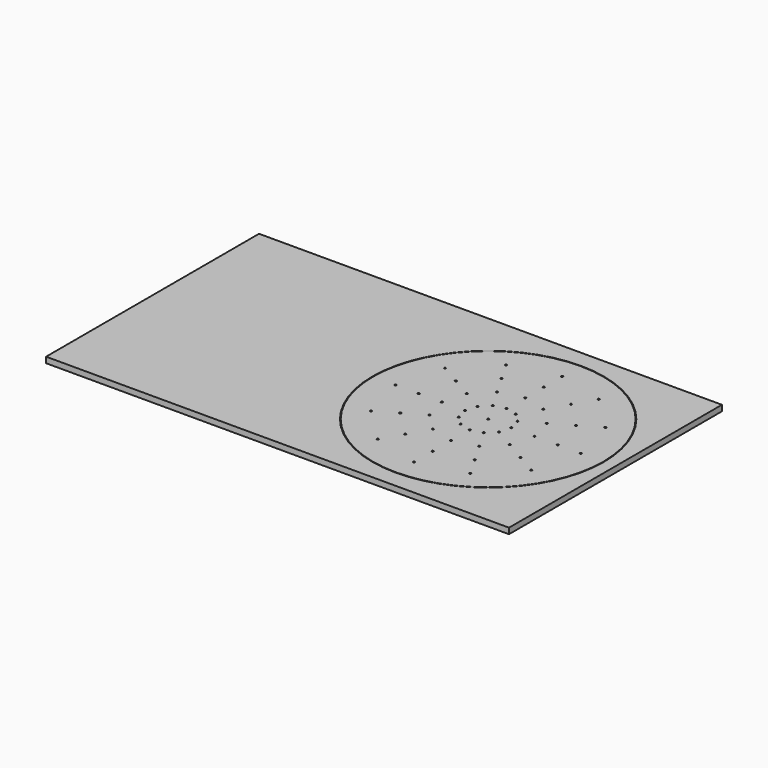
from build123d import *

# Parameters (mm, degrees)
F0_W     = 2000
F0_H     = 1150
F0_R     = 500
F1_DEPTH = 25
F2_R     = 497.5
F2_R_2   = 4
F3_DEPTH = 25


with BuildPart() as f1:
    # F0 (on Top) → F1 (new body)
    with BuildSketch(Plane.XY):
        with Locations((-958.499644, 550.949928)):
            Rectangle(F0_W, F0_H)
        with Locations((-508.499644, 550.949928)):
            Circle(F0_R, mode=Mode.SUBTRACT)
    extrude(amount=F1_DEPTH)


with BuildPart() as f3:
    # F2 (on face) → F3 (new body)
    with BuildSketch(Plane.XY):
        with Locations((-508.499644, 550.949928)):
            Circle(F2_R)
        with Locations((-708.499644, 204.539767)):
            Circle(F2_R_2, mode=Mode.SUBTRACT)
        with Locations((-658.499644, 291.142307)):
            Circle(F2_R_2, mode=Mode.SUBTRACT)
        with Locations((-854.909805, 350.949928)):
            Circle(F2_R_2, mode=Mode.SUBTRACT)
        with Locations((-768.307265, 400.949928)):
            Circle(F2_R_2, mode=Mode.SUBTRACT)
        with Locations((-608.499644, 377.744847)):
            Circle(F2_R_2, mode=Mode.SUBTRACT)
        with Locations((-681.704725, 450.949928)):
            Circle(F2_R_2, mode=Mode.SUBTRACT)
        with Locations((-558.499644, 464.347388)):
            Circle(F2_R_2, mode=Mode.SUBTRACT)
        with Locations((-595.102184, 500.949928)):
            Circle(F2_R_2, mode=Mode.SUBTRACT)
        with Locations((-508.499644, 150.949928)):
            Circle(F2_R_2, mode=Mode.SUBTRACT)
        with Locations((-508.499644, 250.949928)):
            Circle(F2_R_2, mode=Mode.SUBTRACT)
        with Locations((-308.499644, 204.539767)):
            Circle(F2_R_2, mode=Mode.SUBTRACT)
        with Locations((-358.499644, 291.142307)):
            Circle(F2_R_2, mode=Mode.SUBTRACT)
        with Locations((-508.499644, 350.949928)):
            Circle(F2_R_2, mode=Mode.SUBTRACT)
        with Locations((-408.499644, 377.744847)):
            Circle(F2_R_2, mode=Mode.SUBTRACT)
        with Locations((-508.499644, 450.949928)):
            Circle(F2_R_2, mode=Mode.SUBTRACT)
        with Locations((-458.499644, 464.347388)):
            Circle(F2_R_2, mode=Mode.SUBTRACT)
        with Locations((-421.897104, 500.949928)):
            Circle(F2_R_2, mode=Mode.SUBTRACT)
        with Locations((-408.499644, 550.949928)):
            Circle(F2_R_2, mode=Mode.SUBTRACT)
        with Locations((-335.294563, 450.949928)):
            Circle(F2_R_2, mode=Mode.SUBTRACT)
        with Locations((-308.499644, 550.949928)):
            Circle(F2_R_2, mode=Mode.SUBTRACT)
        with Locations((-162.089482, 350.949928)):
            Circle(F2_R_2, mode=Mode.SUBTRACT)
        with Locations((-248.692023, 400.949928)):
            Circle(F2_R_2, mode=Mode.SUBTRACT)
        with Locations((-208.499644, 550.949928)):
            Circle(F2_R_2, mode=Mode.SUBTRACT)
        with Locations((-108.499644, 550.949928)):
            Circle(F2_R_2, mode=Mode.SUBTRACT)
        with Locations((-908.499644, 550.949928)):
            Circle(F2_R_2, mode=Mode.SUBTRACT)
        with Locations((-808.499644, 550.949928)):
            Circle(F2_R_2, mode=Mode.SUBTRACT)
        with Locations((-768.307265, 700.949928)):
            Circle(F2_R_2, mode=Mode.SUBTRACT)
        with Locations((-854.909805, 750.949928)):
            Circle(F2_R_2, mode=Mode.SUBTRACT)
        with Locations((-708.499644, 550.949928)):
            Circle(F2_R_2, mode=Mode.SUBTRACT)
        with Locations((-681.704725, 650.949928)):
            Circle(F2_R_2, mode=Mode.SUBTRACT)
        with Locations((-608.499644, 550.949928)):
            Circle(F2_R_2, mode=Mode.SUBTRACT)
        with Locations((-595.102184, 600.949928)):
            Circle(F2_R_2, mode=Mode.SUBTRACT)
        with Locations((-558.499644, 637.552469)):
            Circle(F2_R_2, mode=Mode.SUBTRACT)
        with Locations((-608.499644, 724.155009)):
            Circle(F2_R_2, mode=Mode.SUBTRACT)
        with Locations((-658.499644, 810.757549)):
            Circle(F2_R_2, mode=Mode.SUBTRACT)
        with Locations((-708.499644, 897.36009)):
            Circle(F2_R_2, mode=Mode.SUBTRACT)
        with Locations((-508.499644, 550.949928)):
            Circle(F2_R_2, mode=Mode.SUBTRACT)
        with Locations((-421.897104, 600.949928)):
            Circle(F2_R_2, mode=Mode.SUBTRACT)
        with Locations((-458.499644, 637.552469)):
            Circle(F2_R_2, mode=Mode.SUBTRACT)
        with Locations((-508.499644, 650.949928)):
            Circle(F2_R_2, mode=Mode.SUBTRACT)
        with Locations((-335.294563, 650.949928)):
            Circle(F2_R_2, mode=Mode.SUBTRACT)
        with Locations((-408.499644, 724.155009)):
            Circle(F2_R_2, mode=Mode.SUBTRACT)
        with Locations((-508.499644, 750.949928)):
            Circle(F2_R_2, mode=Mode.SUBTRACT)
        with Locations((-248.692023, 700.949928)):
            Circle(F2_R_2, mode=Mode.SUBTRACT)
        with Locations((-162.089482, 750.949928)):
            Circle(F2_R_2, mode=Mode.SUBTRACT)
        with Locations((-508.499644, 850.949928)):
            Circle(F2_R_2, mode=Mode.SUBTRACT)
        with Locations((-358.499644, 810.757549)):
            Circle(F2_R_2, mode=Mode.SUBTRACT)
        with Locations((-308.499644, 897.36009)):
            Circle(F2_R_2, mode=Mode.SUBTRACT)
        with Locations((-508.499644, 950.949928)):
            Circle(F2_R_2, mode=Mode.SUBTRACT)
        with Locations((-508.499644, 550.949928)):
            Circle(F2_R)
        with Locations((-708.499644, 204.539767)):
            Circle(F2_R_2, mode=Mode.SUBTRACT)
        with Locations((-658.499644, 291.142307)):
            Circle(F2_R_2, mode=Mode.SUBTRACT)
        with Locations((-854.909805, 350.949928)):
            Circle(F2_R_2, mode=Mode.SUBTRACT)
        with Locations((-768.307265, 400.949928)):
            Circle(F2_R_2, mode=Mode.SUBTRACT)
        with Locations((-608.499644, 377.744847)):
            Circle(F2_R_2, mode=Mode.SUBTRACT)
        with Locations((-681.704725, 450.949928)):
            Circle(F2_R_2, mode=Mode.SUBTRACT)
        with Locations((-558.499644, 464.347388)):
            Circle(F2_R_2, mode=Mode.SUBTRACT)
        with Locations((-595.102184, 500.949928)):
            Circle(F2_R_2, mode=Mode.SUBTRACT)
        with Locations((-508.499644, 150.949928)):
            Circle(F2_R_2, mode=Mode.SUBTRACT)
        with Locations((-508.499644, 250.949928)):
            Circle(F2_R_2, mode=Mode.SUBTRACT)
        with Locations((-308.499644, 204.539767)):
            Circle(F2_R_2, mode=Mode.SUBTRACT)
        with Locations((-358.499644, 291.142307)):
            Circle(F2_R_2, mode=Mode.SUBTRACT)
        with Locations((-508.499644, 350.949928)):
            Circle(F2_R_2, mode=Mode.SUBTRACT)
        with Locations((-408.499644, 377.744847)):
            Circle(F2_R_2, mode=Mode.SUBTRACT)
        with Locations((-508.499644, 450.949928)):
            Circle(F2_R_2, mode=Mode.SUBTRACT)
        with Locations((-458.499644, 464.347388)):
            Circle(F2_R_2, mode=Mode.SUBTRACT)
        with Locations((-421.897104, 500.949928)):
            Circle(F2_R_2, mode=Mode.SUBTRACT)
        with Locations((-408.499644, 550.949928)):
            Circle(F2_R_2, mode=Mode.SUBTRACT)
        with Locations((-335.294563, 450.949928)):
            Circle(F2_R_2, mode=Mode.SUBTRACT)
        with Locations((-308.499644, 550.949928)):
            Circle(F2_R_2, mode=Mode.SUBTRACT)
        with Locations((-162.089482, 350.949928)):
            Circle(F2_R_2, mode=Mode.SUBTRACT)
        with Locations((-248.692023, 400.949928)):
            Circle(F2_R_2, mode=Mode.SUBTRACT)
        with Locations((-208.499644, 550.949928)):
            Circle(F2_R_2, mode=Mode.SUBTRACT)
        with Locations((-108.499644, 550.949928)):
            Circle(F2_R_2, mode=Mode.SUBTRACT)
        with Locations((-908.499644, 550.949928)):
            Circle(F2_R_2, mode=Mode.SUBTRACT)
        with Locations((-808.499644, 550.949928)):
            Circle(F2_R_2, mode=Mode.SUBTRACT)
        with Locations((-768.307265, 700.949928)):
            Circle(F2_R_2, mode=Mode.SUBTRACT)
        with Locations((-854.909805, 750.949928)):
            Circle(F2_R_2, mode=Mode.SUBTRACT)
        with Locations((-708.499644, 550.949928)):
            Circle(F2_R_2, mode=Mode.SUBTRACT)
        with Locations((-681.704725, 650.949928)):
            Circle(F2_R_2, mode=Mode.SUBTRACT)
        with Locations((-608.499644, 550.949928)):
            Circle(F2_R_2, mode=Mode.SUBTRACT)
        with Locations((-595.102184, 600.949928)):
            Circle(F2_R_2, mode=Mode.SUBTRACT)
        with Locations((-558.499644, 637.552469)):
            Circle(F2_R_2, mode=Mode.SUBTRACT)
        with Locations((-608.499644, 724.155009)):
            Circle(F2_R_2, mode=Mode.SUBTRACT)
        with Locations((-658.499644, 810.757549)):
            Circle(F2_R_2, mode=Mode.SUBTRACT)
        with Locations((-708.499644, 897.36009)):
            Circle(F2_R_2, mode=Mode.SUBTRACT)
        with Locations((-508.499644, 550.949928)):
            Circle(F2_R_2, mode=Mode.SUBTRACT)
        with Locations((-421.897104, 600.949928)):
            Circle(F2_R_2, mode=Mode.SUBTRACT)
        with Locations((-458.499644, 637.552469)):
            Circle(F2_R_2, mode=Mode.SUBTRACT)
        with Locations((-508.499644, 650.949928)):
            Circle(F2_R_2, mode=Mode.SUBTRACT)
        with Locations((-335.294563, 650.949928)):
            Circle(F2_R_2, mode=Mode.SUBTRACT)
        with Locations((-408.499644, 724.155009)):
            Circle(F2_R_2, mode=Mode.SUBTRACT)
        with Locations((-508.499644, 750.949928)):
            Circle(F2_R_2, mode=Mode.SUBTRACT)
        with Locations((-248.692023, 700.949928)):
            Circle(F2_R_2, mode=Mode.SUBTRACT)
        with Locations((-162.089482, 750.949928)):
            Circle(F2_R_2, mode=Mode.SUBTRACT)
        with Locations((-508.499644, 850.949928)):
            Circle(F2_R_2, mode=Mode.SUBTRACT)
        with Locations((-358.499644, 810.757549)):
            Circle(F2_R_2, mode=Mode.SUBTRACT)
        with Locations((-308.499644, 897.36009)):
            Circle(F2_R_2, mode=Mode.SUBTRACT)
        with Locations((-508.499644, 950.949928)):
            Circle(F2_R_2, mode=Mode.SUBTRACT)
    extrude(amount=F3_DEPTH)


solid = Compound([f1.part, f3.part])
